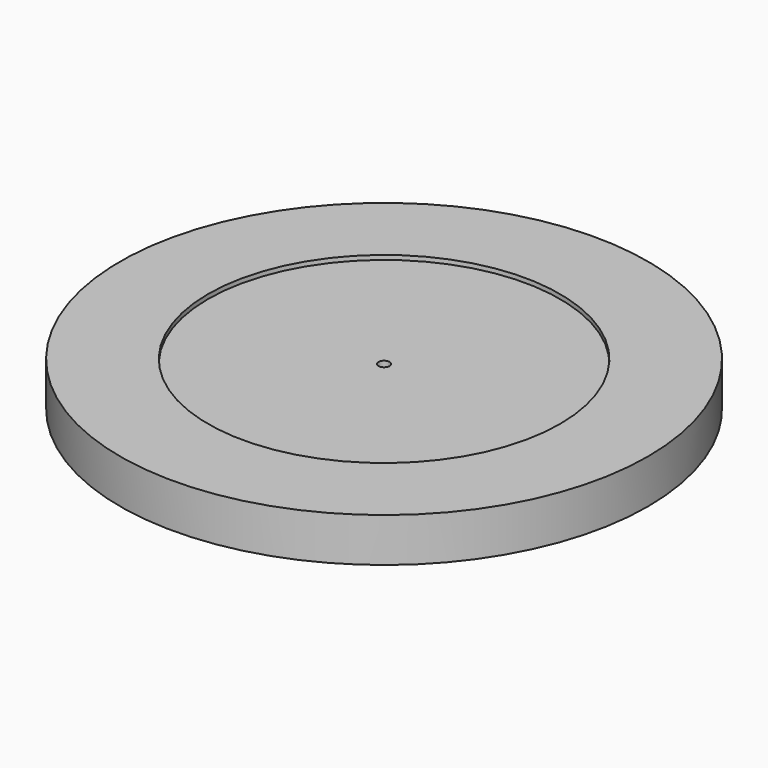
from build123d import *

# Parameters (mm, degrees)
F0_R     = 101.6
F1_DEPTH = 22.86
F2_R     = 3.2385
F3_DEPTH = 22.86
F4_R     = 152.4
F4_R_2   = 101.6
F5_DEPTH = 25.4


with BuildPart() as f1:
    # F0 (on Top) → F1 (new body)
    with BuildSketch(Plane.XY):
        Circle(F0_R)
    extrude(amount=F1_DEPTH)

    # F2 (on face) → F3 (cut, through all)
    with BuildSketch(Plane.XY.offset(22.86)):
        Circle(F2_R)
    extrude(amount=-F3_DEPTH, mode=Mode.SUBTRACT)


with BuildPart() as f5:
    # F4 (on Top) → F5 (new body)
    with BuildSketch(Plane.XY):
        Circle(F4_R)
        Circle(F4_R_2, mode=Mode.SUBTRACT)
    extrude(amount=F5_DEPTH)


solid = Compound([f1.part, f5.part])
